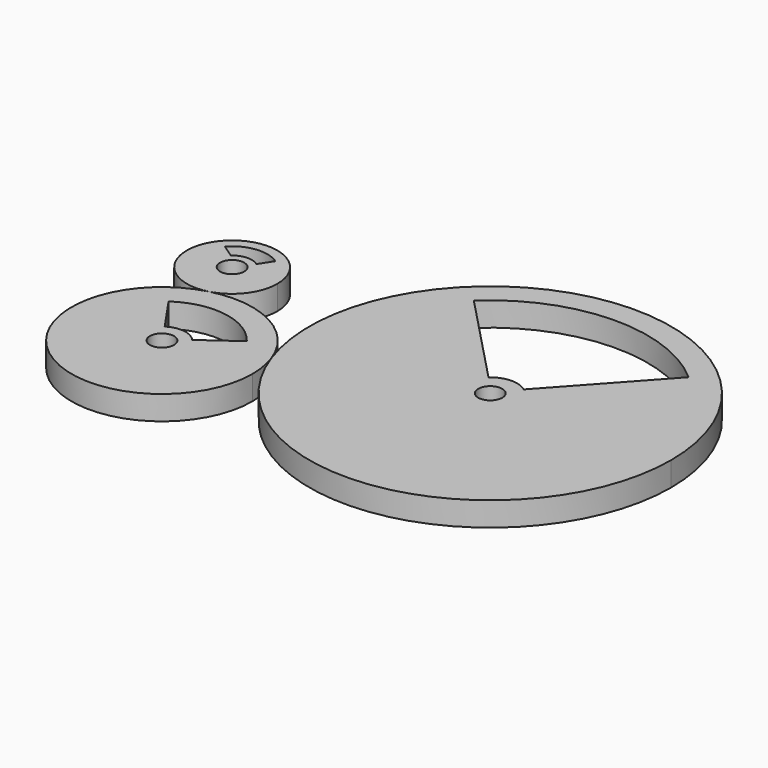
from build123d import *

# Parameters (mm, degrees)
F0_R     = 1.27
F1_DEPTH = 2.54


with BuildPart() as f1:
    # F0 (on Top) → F1 (new body)
    with BuildSketch(Plane.XY):
        with BuildLine():
            ThreePointArc((-20.549793, 7.564549), (-29.086803, 10.468767), (-24.091832, 2.961085))
            ThreePointArc((-24.091832, 2.961085), (-21.537783, 4.660332), (-20.549793, 7.564549))
        make_face()
        with Locations((-25.312293, 7.564549)):
            Circle(F0_R, mode=Mode.SUBTRACT)
        with BuildLine():
            Line((-26.696759, 9.111431), (-28.069088, 10.061521))
            ThreePointArc((-28.069088, 10.061521), (-25.73296, 11.239443), (-23.191077, 10.61991))
            Line((-23.191077, 10.61991), (-24.080458, 9.235529))
            ThreePointArc((-24.080458, 9.235529), (-25.410112, 9.626827), (-26.696759, 9.111431))
        make_face(mode=Mode.SUBTRACT)
        with BuildLine():
            ThreePointArc((-24.091832, 2.961085), (-27.459348, -13.794863), (-12.125912, -6.245843))
            ThreePointArc((-12.125912, -6.245843), (-12.26312, -4.634945), (-12.670792, -3.070458))
            ThreePointArc((-12.670792, -3.070458), (-17.20286, 2.176773), (-24.091832, 2.961085))
        make_face()
        with Locations((-21.650912, -6.245843)):
            Circle(F0_R, mode=Mode.SUBTRACT)
        with BuildLine():
            Line((-23.024751, -4.168963), (-25.573354, -0.47321))
            ThreePointArc((-25.573354, -0.47321), (-20.550097, 0.67176), (-16.130369, -1.975895))
            Line((-16.130369, -1.975895), (-19.775376, -4.607786))
            ThreePointArc((-19.775376, -4.607786), (-21.318358, -3.783363), (-23.024751, -4.168963))
        make_face(mode=Mode.SUBTRACT)
        with BuildLine():
            ThreePointArc((24.339448, 3.280313), (2.067653, 22.055896), (-12.670792, -3.070458))
            ThreePointArc((-12.670792, -3.070458), (8.511243, -15.495271), (24.339448, 3.280313))
        make_face()
        with Locations((5.289448, 3.280313)):
            Circle(F0_R, mode=Mode.SUBTRACT)
        with BuildLine():
            Line((3.404381, 5.406586), (-6.07689, 15.328672))
            ThreePointArc((-6.07689, 15.328672), (5.008566, 19.815688), (16.240023, 15.707763))
            Line((16.240023, 15.707763), (7.012845, 5.539609))
            ThreePointArc((7.012845, 5.539609), (5.185031, 6.112789), (3.404381, 5.406586))
        make_face(mode=Mode.SUBTRACT)
    extrude(amount=F1_DEPTH)


solid = f1.part
